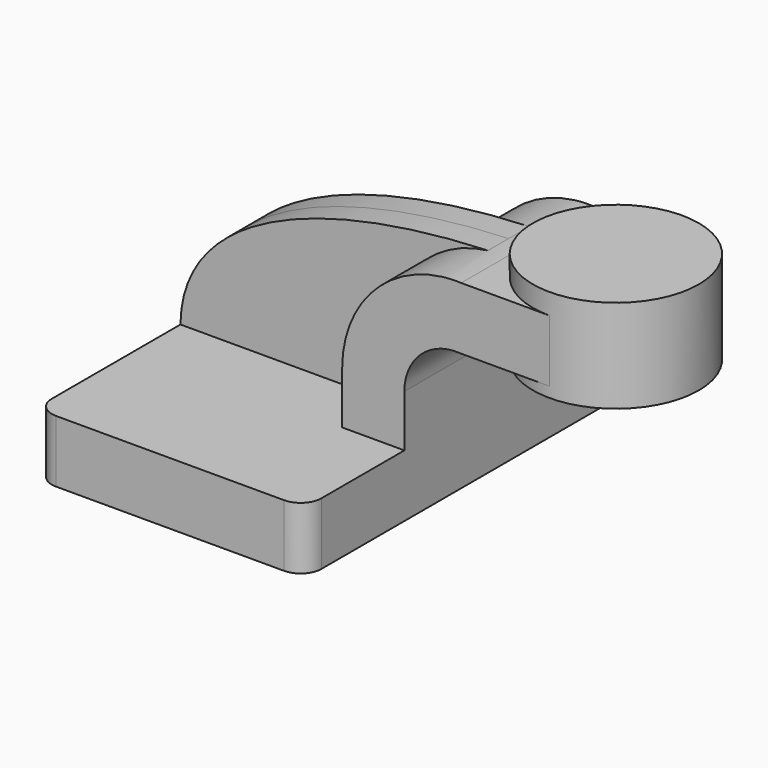
from build123d import *

# Parameters (mm, degrees)
F1_DEPTH = 63.5
F2_DEPTH = 25.4
F3_DEPTH = 7.9375
F0_W     = 25.4
F0_H     = 19.0499985942
F4_DEPTH = 25.4
F6_R     = 6.35


with BuildPart() as f1:
    # F0 (on Front) → F1 (new body, symmetric)
    with BuildSketch(Plane.XZ):
        Polygon((-41.275, 9.525), (-41.275, -9.525), (41.275, -9.525), (41.275, 9.525), (22.2250014058, 9.525), align=None)
    extrude(amount=F1_DEPTH, both=True)

    # F0 (on Front) → F2 (join, symmetric)
    with BuildSketch(Plane.XZ):
        with BuildLine():
            Line((22.2250014058, 9.525), (41.275, 9.525))
            Line((41.275, 9.525), (41.275, 25.4321699366))
            ThreePointArc((41.275, 25.4321699366), (46.2876837818, 37.0091173484), (58.1601289922, 41.275))
            Line((58.1601289922, 41.275), (60.325, 41.275))
            Line((60.325, 41.275), (60.325, 60.3249985942))
            Line((60.325, 60.3249985942), (58.6486777751, 60.3249985942))
            ThreePointArc((58.6486777751, 60.3249985942), (55.7661237808, 60.3297402447), (52.8929969389, 60.0967549152))
            ThreePointArc((52.8929969389, 60.0967549152), (30.9924833678, 48.5739038915), (22.2250014058, 25.4321699366))
            Line((22.2250014058, 25.4321699366), (22.2250014058, 9.525))
        make_face()
    extrude(amount=F2_DEPTH, both=True)

    # F0 (on Front) → F3 (join, symmetric)
    with BuildSketch(Plane.XZ):
        with BuildLine():
            add(Edge.make_bspline(
                [(-41.275, 9.525), (-40.9022124169, 41.6161306688), (0.6165533939, 57.971909164), (52.8929969389, 60.0967549152)],
                knots=[0, 0, 0, 0, 108.2857694169, 108.2857694169, 108.2857694169, 108.2857694169], degree=3))
            Line((-41.275, 9.525), (22.2250014058, 9.525))
            Line((22.2250014058, 9.525), (22.2250014058, 25.4321699366))
            ThreePointArc((22.2250014058, 25.4321699366), (30.9924833678, 48.5739038915), (52.8929969389, 60.0967549152))
        make_face()
    extrude(amount=F3_DEPTH, both=True)

    # F0 (on Front) → F4 (join, symmetric)
    with BuildSketch(Plane.XZ):
        with Locations((73.025, 50.7999992971)):
            Rectangle(F0_W, F0_H)
    extrude(amount=F4_DEPTH, both=True)

    # F0 (on Front) → F5 (revolve)
    with BuildSketch(Plane.XZ):
        Polygon((85.725, 66.675), (85.725, 60.3249985942), (85.725, 41.275), (85.725, 38.1), (111.125, 38.1), (111.125, 66.675), align=None)
    revolve(axis=Axis((85.725, 0, 52.3875), (0, 0, 1)))

    # F6
    f6_edges = [f1.edges().sort_by_distance(p)[0] for p in [
        (-41.275, -63.5, 0),
        (41.275, -63.5, 0),
        (41.275, 63.5, 0),
        (-41.275, 63.5, 0),
    ]]
    fillet(f6_edges, radius=F6_R)


solid = f1.part
